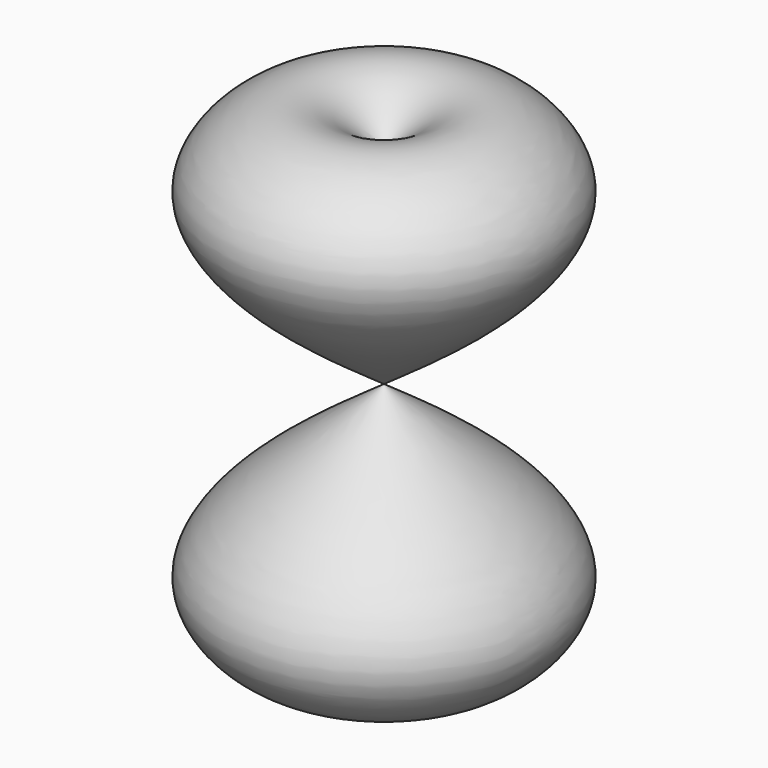
from build123d import *


with BuildPart() as f1:
    # F0 (on Front) → F1 (revolve)
    with BuildSketch(Plane.XZ):
        with BuildLine():
            add(Edge.make_bspline(
                [(0, 55.5734485388), (7.0162130061, 62.2580196004), (21.5632108294, 76.1174107848), (62.4713048467, 44.1246151007), (23.3368405571, 16.4832335386), (0, 0)],
                knots=[0, 0, 0, 0, 0.2733047688, 0.5666538165, 1, 1, 1, 1], degree=3))
            Line((0, 55.5734485388), (0, 0))
        make_face()
    revolve(axis=Axis((0, 0, -0.0985339284), (0, 0, -1)))


with BuildPart() as f2_1:
    # F2: instance of F1
    add(f1.part.mirror(Plane.XY))


solid = Compound([f1.part, f2_1.part])
